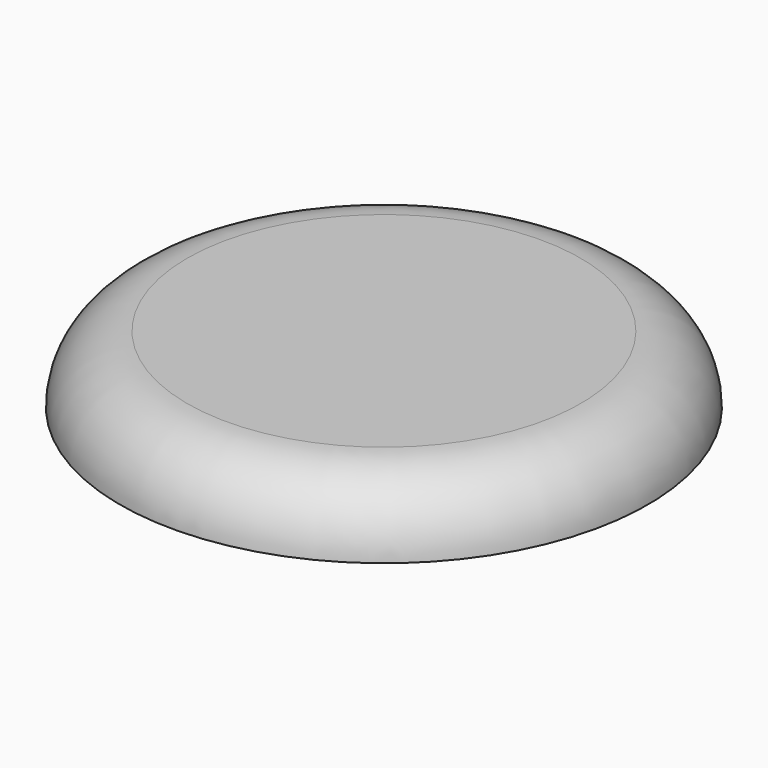
from build123d import *


with BuildPart() as f1:
    # F0 (on Front) → F1 (revolve)
    with BuildSketch(Plane.XZ):
        with BuildLine():
            ThreePointArc((-30.94, 10.56), (-38.407048, 7.467048), (-41.5, 0))
            Line((-41.5, 0), (0, 0))
            Line((0, 0), (0, 10.56))
            Line((0, 10.56), (-30.94, 10.56))
        make_face()
    revolve(axis=Axis((0, 0, 5.28), (0, 0, 1)))


solid = f1.part
